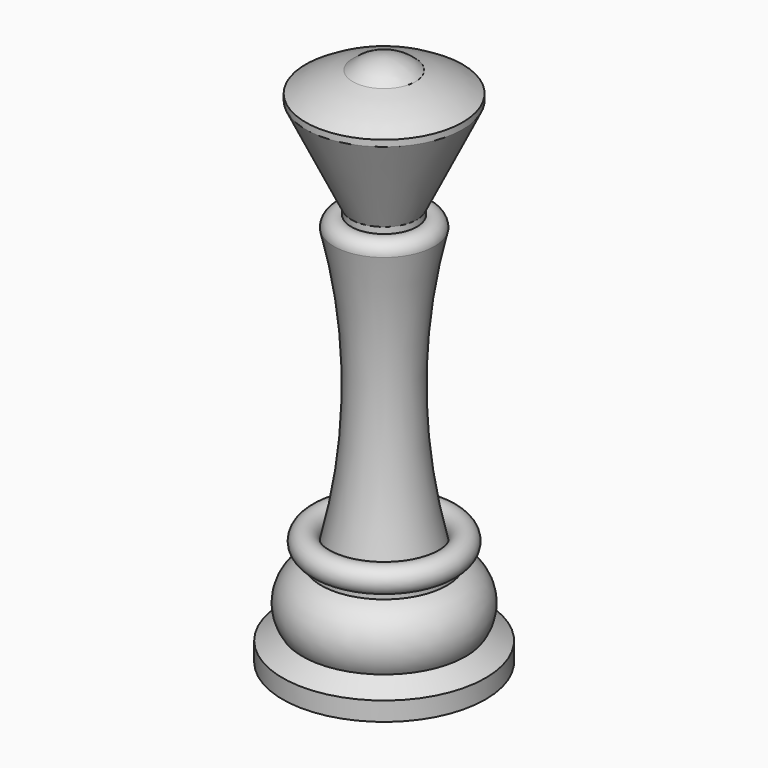
from build123d import *


with BuildPart() as f1:
    # F0 (on Front) → F1 (revolve)
    with BuildSketch(Plane.XZ):
        with BuildLine():
            ThreePointArc((12.5, -5.27), (8.884681, -3.326098), (5, -2))
            ThreePointArc((5, -2), (2.692582, -0.518544), (0, 0))
            Line((0, 0), (0, -85))
            Line((0, -85), (16.167236, -85))
            Line((16.167236, -85), (16.167236, -82))
            Line((16.167236, -82), (13, -80))
            ThreePointArc((13, -80), (13.692064, -74.785902), (10.009813, -71.03))
            Line((10.009813, -71.03), (10.009813, -70.03))
            ThreePointArc((10.009813, -70.03), (11.410748, -66.612354), (8, -68.03))
            ThreePointArc((8, -68.03), (5.281252, -46.075887), (8, -24.121774))
            ThreePointArc((8, -24.121774), (7.115527, -22.461774), (5.2444, -22.27))
            Line((5.2444, -22.27), (5.2444, -21.27))
            Line((5.2444, -21.27), (12.5, -6.27))
            Line((12.5, -6.27), (12.5, -5.27))
        make_face()
    revolve(axis=Axis((0, 0, -42.5), (0, 0, -1)))


solid = f1.part
